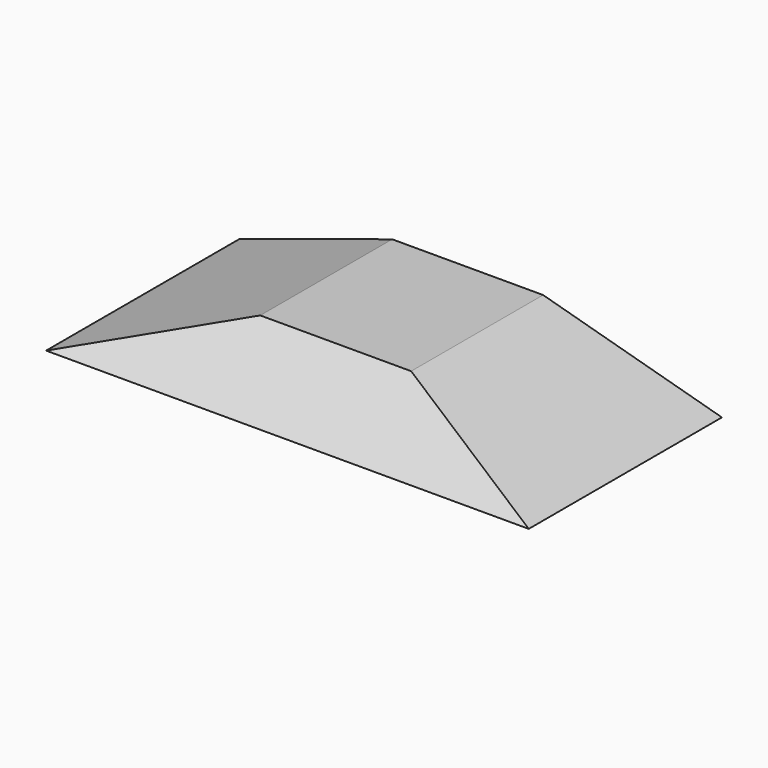
from build123d import *

# Parameters (mm, degrees)
F1_DEPTH      = 2400
F3_DEPTH      = 2398.4874516728
F3_DEPTH_BACK = 2398.4874516728
F4_DEPTH      = 25
F4_DEPTH_BACK = 1850
F5_DEPTH      = 150


with BuildPart() as f1:
    # F0 (on Front) → F1 (new body)
    with BuildSketch(Plane.XZ):
        Polygon((-723.5509528937, 450), (-1959.9157916483, 0), (1959.9157916483, 0), (723.5509528937, 450), align=None)
        Polygon((-750, 600), (-2398.4864516728, 0), (-1959.9157916483, 0), (-723.5509528937, 450), (723.5509528937, 450), (1959.9157916483, 0), (2398.4864516728, 0), (1574.2432258364, 300), (750, 600), align=None)
    extrude(amount=F1_DEPTH)

    # F2 (on Right) → F3 (cut, two sides)
    with BuildSketch(Plane.YZ) as f3_sk:
        Polygon((-2400, 600), (-2400, 0), (-1800, 600), align=None)
        Polygon((-160.7695154587, 600), (0, 0), (0, 600), align=None)
    extrude(amount=F3_DEPTH, mode=Mode.SUBTRACT)
    extrude(f3_sk.sketch, amount=-F3_DEPTH_BACK, mode=Mode.SUBTRACT)

    # F0 (on Front) → F4 (cut, two sides)
    with BuildSketch(Plane.XZ) as f4_sk:
        Polygon((-723.5509528937, 450), (-1959.9157916483, 0), (1959.9157916483, 0), (723.5509528937, 450), align=None)
    extrude(amount=-F4_DEPTH, mode=Mode.SUBTRACT)
    extrude(f4_sk.sketch, amount=F4_DEPTH_BACK, mode=Mode.SUBTRACT)

    # F0 (on Front) → F5 (join)
    with BuildSketch(Plane.XZ):
        Polygon((-723.5509528937, 450), (-1959.9157916483, 0), (1959.9157916483, 0), (723.5509528937, 450), align=None)
    extrude(amount=F5_DEPTH)


solid = f1.part
